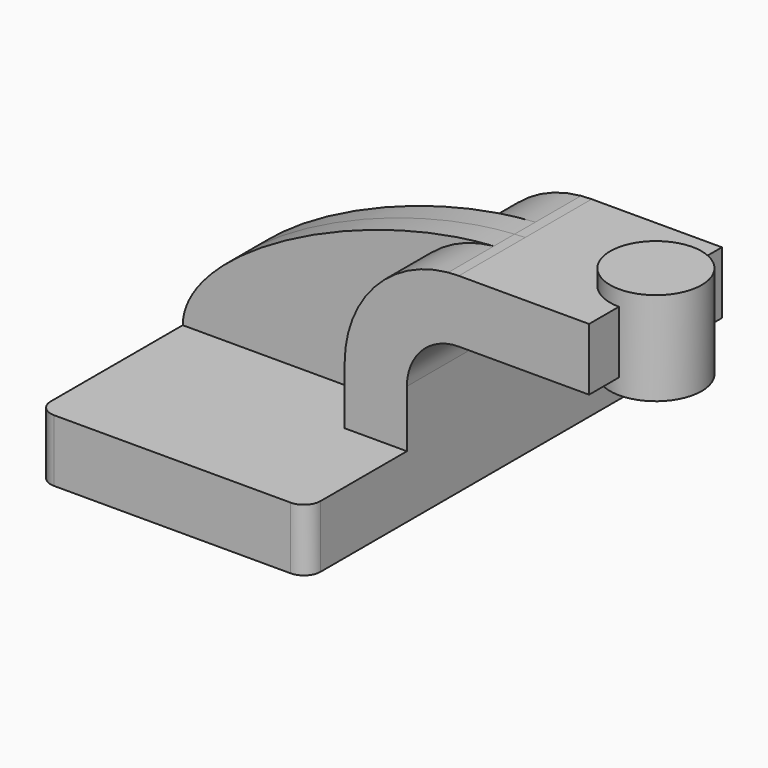
from build123d import *

# Parameters (mm, degrees)
F1_DEPTH = 2.5
F0_W     = 1.443921
F0_H     = 0.75
F2_DEPTH = 1
F3_DEPTH = 0.3125
F0_W_2   = 0.551202
F0_H_2   = 1.125
F5_R     = 0.2


with BuildPart() as f1:
    # F0 (on Front) → F1 (new body, symmetric)
    with BuildSketch(Plane.XZ):
        Polygon((-1.625, -0.375), (1.625, -0.375), (1.625, 0.375), (0.875, 0.375), (-1.625, 0.375), align=None)
    extrude(amount=F1_DEPTH, both=True)

    # F0 (on Front) → F2 (join, symmetric)
    with BuildSketch(Plane.XZ):
        with BuildLine():
            Line((0.875, 0.375), (1.625, 0.375))
            Line((1.625, 0.375), (1.625, 1.063))
            ThreePointArc((1.625, 1.063), (1.808058, 1.504942), (2.25, 1.688))
            Line((2.25, 1.688), (2.375, 1.688))
            Line((2.375, 1.688), (2.375, 2.438))
            Line((2.375, 2.438), (2.25, 2.438))
            add(Edge.make_bspline(
                [(2.121971, 2.432026), (2.164984, 2.434706), (2.207675, 2.436705), (2.25, 2.438)],
                knots=[4.277425, 4.277425, 4.277425, 4.277425, 4.389942, 4.389942, 4.389942, 4.389942], degree=3))
            ThreePointArc((2.121971, 2.432026), (1.23347, 1.988901), (0.875, 1.063))
            Line((0.875, 1.063), (0.875, 0.375))
        make_face()
        with Locations((3.09696, 2.063)):
            Rectangle(F0_W, F0_H)
    extrude(amount=F2_DEPTH, both=True)

    # F0 (on Front) → F3 (join, symmetric)
    with BuildSketch(Plane.XZ):
        with BuildLine():
            add(Edge.make_bspline(
                [(-1.625, 0.375), (-1.612032, 1.243352), (0.486814, 2.330145), (2.121971, 2.432026)],
                knots=[0, 0, 0, 0, 4.277425, 4.277425, 4.277425, 4.277425], degree=3))
            Line((-1.625, 0.375), (0.875, 0.375))
            Line((0.875, 0.375), (0.875, 1.063))
            ThreePointArc((0.875, 1.063), (1.23347, 1.988901), (2.121971, 2.432026))
        make_face()
    extrude(amount=F3_DEPTH, both=True)

    # F0 (on Front) → F4 (revolve)
    with BuildSketch(Plane.XZ):
        with Locations((4.099399, 2.0625)):
            Rectangle(F0_W_2, F0_H_2)
    revolve(axis=Axis((3.823798, 0, 2.0625), (0, 0, 1)))

    # F5
    f5_edges = [f1.edges().sort_by_distance(p)[0] for p in [
        (-1.625, -2.5, 0),
        (1.625, -2.5, 0),
        (1.625, 2.5, 0),
        (-1.625, 2.5, 0),
    ]]
    fillet(f5_edges, radius=F5_R)


solid = f1.part
